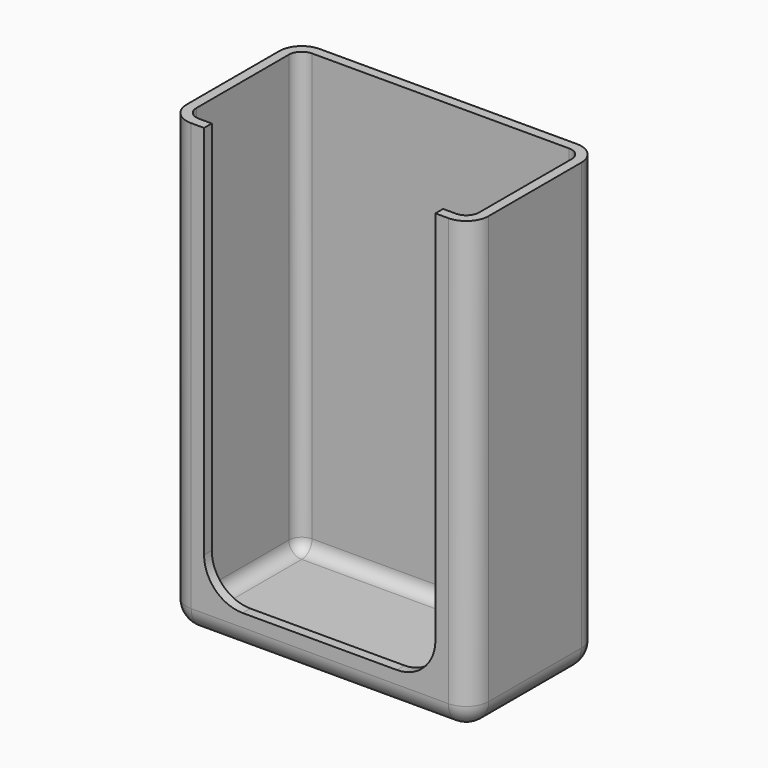
from build123d import *

# Parameters (mm, degrees)
BOX002_W     = 36
BOX002_H     = 20.5
BOX002_DEPTH = 70
FILLET004_R  = 6
BOX_W        = 44
BOX_H        = 22
BOX_DEPTH    = 70
FILLET_R     = 2
FILLET005_R  = 2
BOX003_W     = 47
BOX003_H     = 25
BOX003_DEPTH = 70
FILLET006_R  = 3.5
FILLET007_R  = 3.5


with BuildPart() as fillet004:
    # Box002 → Box002 (new body)
    with BuildSketch(Plane(origin=(-18, -10, 4), x_dir=(1, 0, 0), z_dir=(0, 0, 1))):
        with Locations((18, 10.25)):
            Rectangle(BOX002_W, BOX002_H)
    extrude(amount=BOX002_DEPTH)

    # Fillet004
    fillet004_edges = [fillet004.edges().sort_by_distance(p)[0] for p in [
        (-18, 0.25, 4),
        (18, 0.25, 4),
    ]]
    fillet(fillet004_edges, radius=FILLET004_R)


with BuildPart() as fusion:
    # Box → Box (new body)
    with BuildSketch(Plane(origin=(-22, 0, 0), x_dir=(1, 0, 0), z_dir=(0, 0, 1))):
        with Locations((22, 11)):
            Rectangle(BOX_W, BOX_H)
    extrude(amount=BOX_DEPTH)

    # Fillet
    fillet_edges = [fusion.edges().sort_by_distance(p)[0] for p in [
        (-22, 11, 0),
        (22, 11, 0),
    ]]
    fillet(fillet_edges, radius=FILLET_R)

    # Fillet005
    fillet005_edges = [fusion.edges().sort_by_distance(p)[0] for p in [
        (22, 0, 36),
        (22, 22, 36),
    ]]
    fillet(fillet005_edges, radius=FILLET005_R)

    # Fusion: union Fillet004
    add(fillet004.part)


with BuildPart() as cut:
    # Box003 → Box003 (new body)
    with BuildSketch(Plane(origin=(-23.5, -1.5, -1.5), x_dir=(1, 0, 0), z_dir=(0, 0, 1))):
        with Locations((23.5, 12.5)):
            Rectangle(BOX003_W, BOX003_H)
    extrude(amount=BOX003_DEPTH)

    # Fillet006
    fillet006_edges = [cut.edges().sort_by_distance(p)[0] for p in [
        (-23.5, 11, -1.5),
        (23.5, 11, -1.5),
    ]]
    fillet(fillet006_edges, radius=FILLET006_R)

    # Fillet007
    fillet007_edges = [cut.edges().sort_by_distance(p)[0] for p in [
        (0, -1.5, -1.5),
        (0, 23.5, -1.5),
    ]]
    fillet(fillet007_edges, radius=FILLET007_R)

    # Cut: cut Fusion
    add(fusion.part, mode=Mode.SUBTRACT)


solid = cut.part
